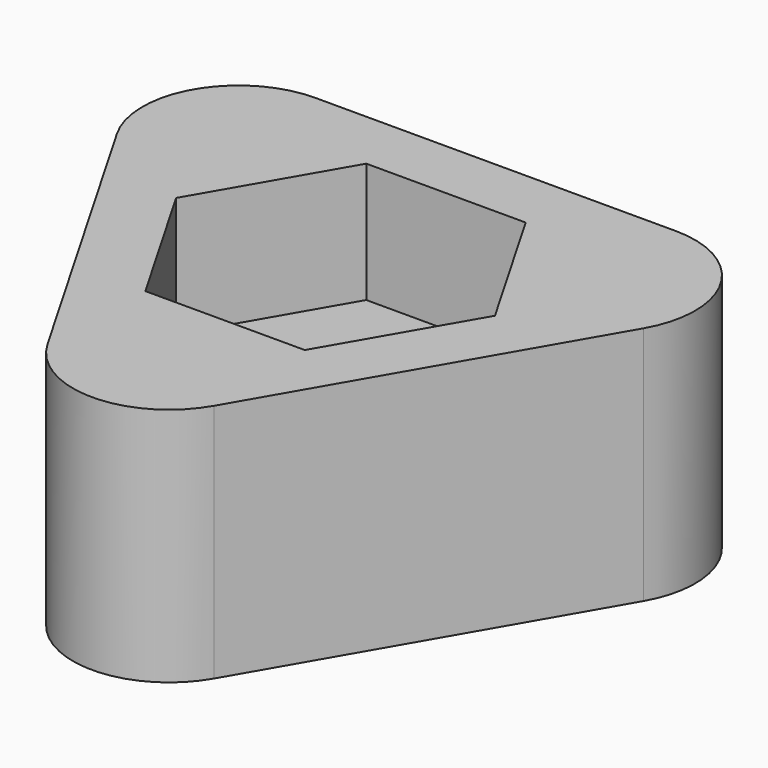
from build123d import *

# Parameters (mm, degrees)
F1_DEPTH = 6.35
F2_DEPTH = 12.7
F4_DEPTH = 6.35
F5_R     = 5.08


with BuildPart() as f1:
    # F0 (on Top) → F1 (new body)
    with BuildSketch(Plane.XY):
        Polygon((18.330871, 10.583333), (-18.330871, 10.583333), (0, -21.166667), align=None)
        Polygon((-8.432201, 0), (-4.2161, 7.3025), (4.2161, 7.3025), (8.432201, 0), (4.2161, -7.3025), (-4.2161, -7.3025), align=None, mode=Mode.SUBTRACT)
    extrude(amount=F1_DEPTH)

    # F0 (on Top) → F2 (join)
    with BuildSketch(Plane.XY):
        Polygon((18.330871, 10.583333), (-18.330871, 10.583333), (0, -21.166667), align=None)
        Polygon((-8.432201, 0), (-4.2161, 7.3025), (4.2161, 7.3025), (8.432201, 0), (4.2161, -7.3025), (-4.2161, -7.3025), align=None, mode=Mode.SUBTRACT)
    extrude(amount=F2_DEPTH)

    # F3 (on face) → F4 (join)
    with BuildSketch(Plane(origin=(0, 0, 0), x_dir=(1, 0, 0), z_dir=(0, 0, -1))):
        Polygon((-4.2161, -7.3025), (4.2161, -7.3025), (8.432201, 0), (4.2161, 7.3025), (-4.2161, 7.3025), (-8.432201, 0), align=None)
    extrude(amount=-F4_DEPTH)

    # F5
    f5_edges = [f1.edges().sort_by_distance(p)[0] for p in [
        (18.330871, 10.583333, 6.35),
        (-18.330871, 10.583333, 6.35),
        (0, -21.166667, 6.35),
    ]]
    fillet(f5_edges, radius=F5_R)


solid = f1.part
